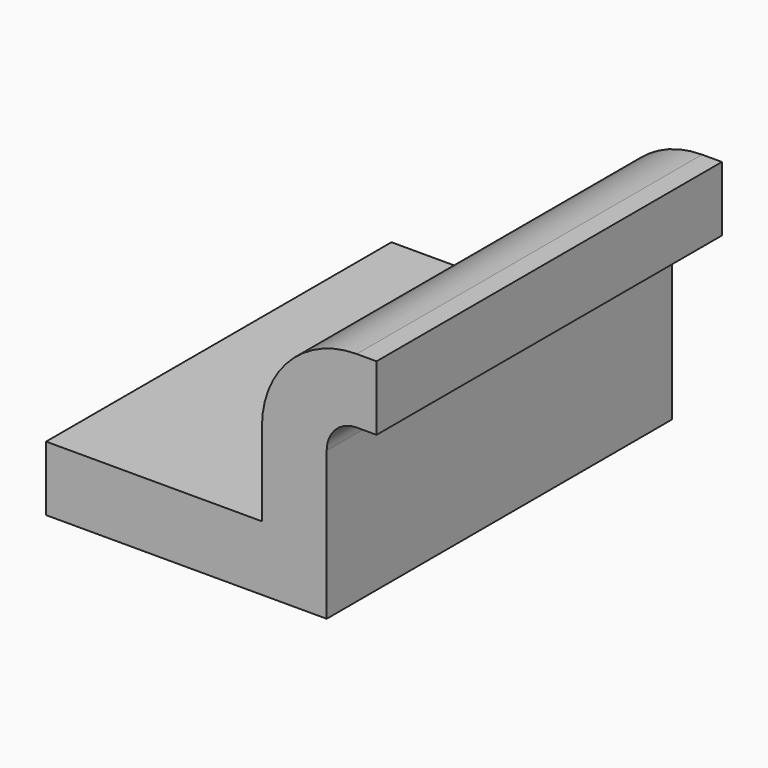
from build123d import *

# Parameters (mm, degrees)
F1_DEPTH = 63.5


with BuildPart() as f1:
    # F0 (on Front) → F1 (new body, symmetric)
    with BuildSketch(Plane.XZ):
        Polygon((-41.275, -9.525), (41.275, -9.525), (41.275, 9.525), (22.225, 9.525), (-41.275, 9.525), align=None)
        with BuildLine():
            Line((22.225, 9.525), (41.275, 9.525))
            Line((41.275, 9.525), (41.275, 34.049165))
            ThreePointArc((41.275, 34.049165), (43.860086, 40.290114), (50.101035, 42.8752))
            Line((50.101035, 42.8752), (55.933417, 42.8752))
            Line((55.933417, 42.8752), (55.933417, 61.9252))
            Line((55.933417, 61.9252), (50.101035, 61.9252))
            ThreePointArc((50.101035, 61.9252), (30.389702, 53.760498), (22.225, 34.049165))
            Line((22.225, 34.049165), (22.225, 9.525))
        make_face()
    extrude(amount=F1_DEPTH, both=True)


solid = f1.part
